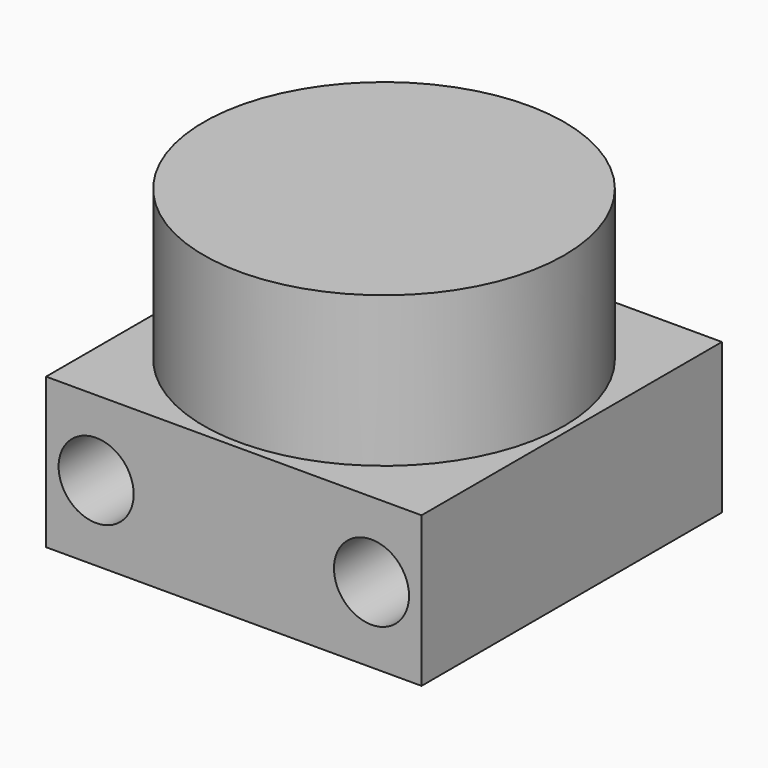
from build123d import *

# Parameters (mm, degrees)
F0_W     = 15
F0_H     = 15
F1_DEPTH = 6
F2_R     = 1.5
F3_DEPTH = 15
F4_R     = 1.5
F5_DEPTH = 15
F6_R     = 7.202484
F7_DEPTH = 6


with BuildPart() as f1:
    # F0 (on Top) → F1 (new body)
    with BuildSketch(Plane.XY):
        with Locations((-0.751974, 1.514031)):
            Rectangle(F0_W, F0_H)
    extrude(amount=F1_DEPTH)

    # F2 (on face) → F3 (cut)
    with BuildSketch(Plane.XZ.offset(5.985969)):
        with Locations((-6.251974, 3)):
            Circle(F2_R)
    extrude(amount=-F3_DEPTH, mode=Mode.SUBTRACT)

    # F4 (on face) → F5 (cut)
    with BuildSketch(Plane.XZ.offset(5.985969)):
        with Locations((4.748026, 3)):
            Circle(F4_R)
    extrude(amount=-F5_DEPTH, mode=Mode.SUBTRACT)

    # F6 (on face) → F7 (join)
    with BuildSketch(Plane.XY.offset(6)):
        with Locations((-0.751974, 1.514031)):
            Circle(F6_R)
    extrude(amount=F7_DEPTH)


solid = f1.part
